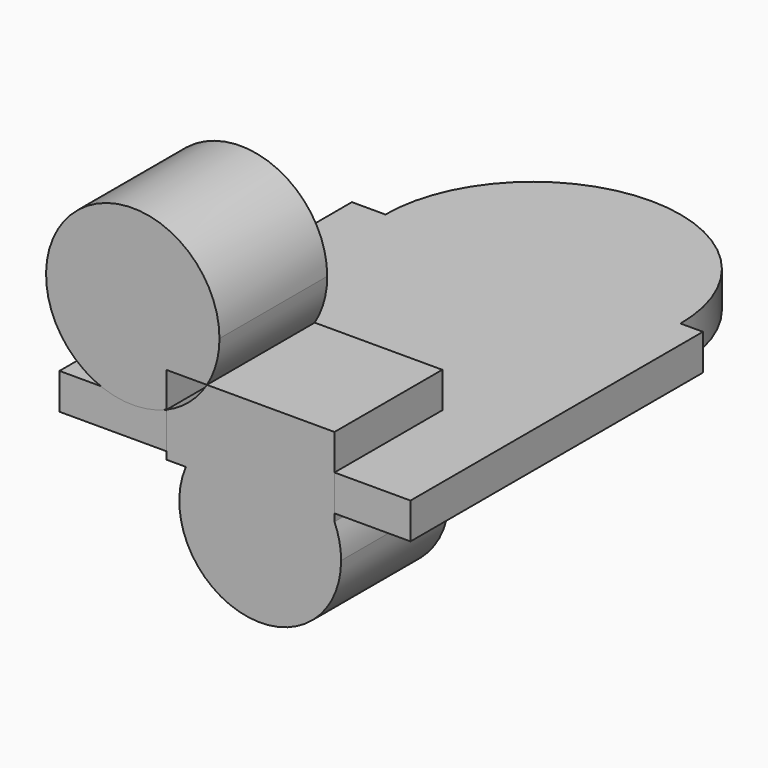
from build123d import *

# Parameters (mm, degrees)
F1_DEPTH = 15
F3_DEPTH = 56.1727784541


with BuildPart() as f1:
    # F0 (on Top) → F1 (new body)
    with BuildSketch(Plane.XY):
        with BuildLine():
            Line((-75.4883495437, -56.1727784541), (70.8664176497, -56.1727784541))
            Line((70.8664176497, -56.1727784541), (70.8664176497, 96.2272215459))
            Line((70.8664176497, 96.2272215459), (61.5242693467, 96.2272215459))
            ThreePointArc((61.5242693467, 96.2272215459), (0, 34.7029521991), (-61.5242693467, 96.2272215459))
            Line((-61.5242693467, 96.2272215459), (-75.4883495437, 96.2272215459))
            Line((-75.4883495437, 96.2272215459), (-75.4883495437, -56.1727784541))
        make_face()
        with BuildLine():
            Line((-61.5242693467, 96.2272215459), (61.5242693467, 96.2272215459))
            ThreePointArc((61.5242693467, 96.2272215459), (0, 157.7514908926), (-61.5242693467, 96.2272215459))
        make_face()
        with BuildLine():
            ThreePointArc((-61.5242693467, 96.2272215459), (0, 34.7029521991), (61.5242693467, 96.2272215459))
            Line((61.5242693467, 96.2272215459), (-61.5242693467, 96.2272215459))
        make_face()
    extrude(amount=F1_DEPTH)


with BuildPart() as f3:
    # F2 (on Front) → F3 (new body, through all)
    with BuildSketch(Plane.XZ):
        with BuildLine():
            ThreePointArc((-14.0056596662, 29.8738628626), (-10.1190368852, 38.8690121373), (-8.7909689209, 48.5775023699))
            ThreePointArc((-8.7909689209, 48.5775023699), (-75.0785545588, 68.5402217079), (-30.838733539, 15.2918188285))
            Line((-30.838733539, 15.2918188285), (-30.838733539, 29.8738628626))
            Line((-30.838733539, 29.8738628626), (-14.0056596662, 29.8738628626))
        make_face()
    extrude(amount=F3_DEPTH)


with BuildPart() as f3b:
    # F2 (on Front) → F3, piece 2 (new body, through all)
    with BuildSketch(Plane.XZ):
        with BuildLine():
            ThreePointArc((-14.0056596662, 29.8738628626), (-21.2712673338, 21.2542426491), (-30.838733539, 15.2918188285))
            Line((-30.838733539, 15.2918188285), (-30.838733539, 11.3956918838))
            Line((-30.838733539, 11.3956918838), (-10.8487344489, 11.3956918838))
            Line((-10.8487344489, 11.3956918838), (-10.8487344489, 29.8738628626))
            Line((-10.8487344489, 29.8738628626), (-14.0056596662, 29.8738628626))
        make_face()
        with BuildLine():
            Line((39.17702873, 29.8738628626), (-10.8487344489, 29.8738628626))
            Line((-10.8487344489, 29.8738628626), (-10.8487344489, 11.3956918838))
            ThreePointArc((-10.8487344489, 11.3956918838), (17.5826703425, 15.9594720685), (39.17702873, -3.0893219567))
            Line((39.17702873, -3.0893219567), (39.17702873, 29.8738628626))
        make_face()
        with BuildLine():
            Line((-10.8487344489, 11.3956918838), (-30.838733539, 11.3956918838))
            Line((-30.838733539, 11.3956918838), (-30.838733539, -3.0893219567))
            Line((-30.838733539, -3.0893219567), (-22.7742365445, -3.0893219567))
            ThreePointArc((-22.7742365445, -3.0893219567), (-17.8389217221, 4.9990725128), (-10.8487344489, 11.3956918838))
        make_face()
        with BuildLine():
            Line((39.17702873, -3.0893219567), (-22.7742365445, -3.0893219567))
            ThreePointArc((-22.7742365445, -3.0893219567), (1.3854994471, -49.4743007291), (41.931617639, -16.4399035275))
            ThreePointArc((41.931617639, -16.4399035275), (41.2357932944, -9.6240068819), (39.17702873, -3.0893219567))
        make_face()
        with BuildLine():
            ThreePointArc((39.17702873, -3.0893219567), (17.5826703425, 15.9594720685), (-10.8487344489, 11.3956918838))
            ThreePointArc((-10.8487344489, 11.3956918838), (-17.8389217221, 4.9990725128), (-22.7742365445, -3.0893219567))
            Line((-22.7742365445, -3.0893219567), (39.17702873, -3.0893219567))
        make_face()
    extrude(amount=F3_DEPTH)


solid = Compound([f1.part, f3.part, f3b.part])
